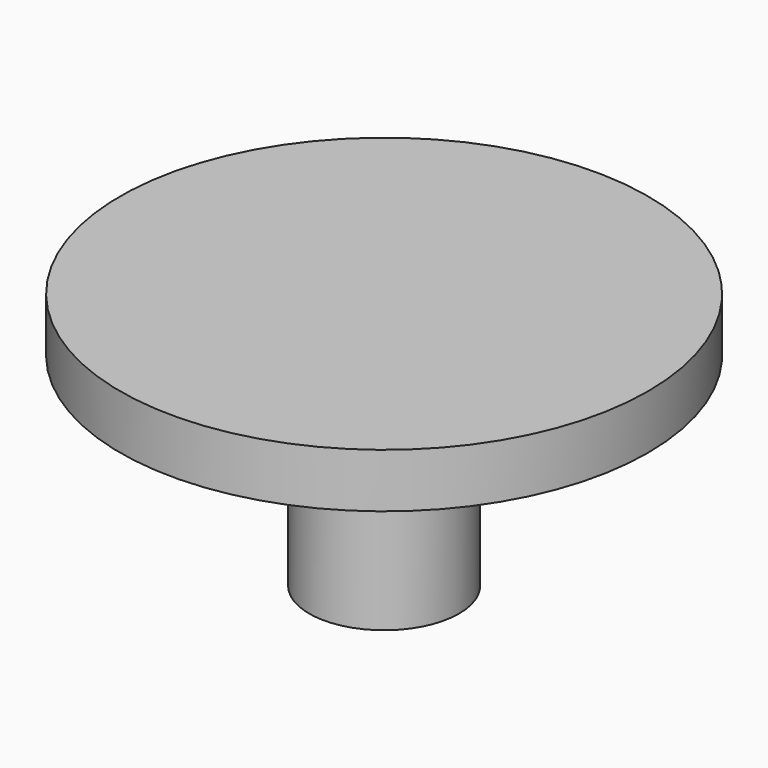
from build123d import *

# Parameters (mm, degrees)
F0_W     = 2.77
F0_H     = 7.5
F3_DEPTH = 7.5
F4_R     = 1


with BuildPart() as f1:
    # F0 (on Front) → F1 (revolve)
    with BuildSketch(Plane.XZ):
        Polygon((0, 9.5), (0, 7.5), (2.77, 7.5), (9.75, 7.5), (9.75, 9.5), align=None)
        with Locations((1.385, 3.75)):
            Rectangle(F0_W, F0_H)
    revolve(axis=Axis((0, 0, 3.75), (0, 0, 1)))

    # F2 (on face) → F3 (cut)
    with BuildSketch(Plane(origin=(0, 0, 0), x_dir=(1, 0, 0), z_dir=(0, 0, -1))):
        Polygon((0.675, 2.05), (-0.675, 2.05), (-0.675, 0.675), (-2.05, 0.675), (-2.05, -0.675), (-0.675, -0.675), (-0.675, -2.05), (0.675, -2.05), (0.675, -0.675), (2.05, -0.675), (2.05, 0.675), (0.675, 0.675), align=None)
    extrude(amount=-F3_DEPTH, mode=Mode.SUBTRACT)

    # F4
    f4_edges = [f1.edges().sort_by_distance(p)[0] for p in [
        (-2.77, 0, 7.5),
    ]]
    fillet(f4_edges, radius=F4_R)


solid = f1.part
